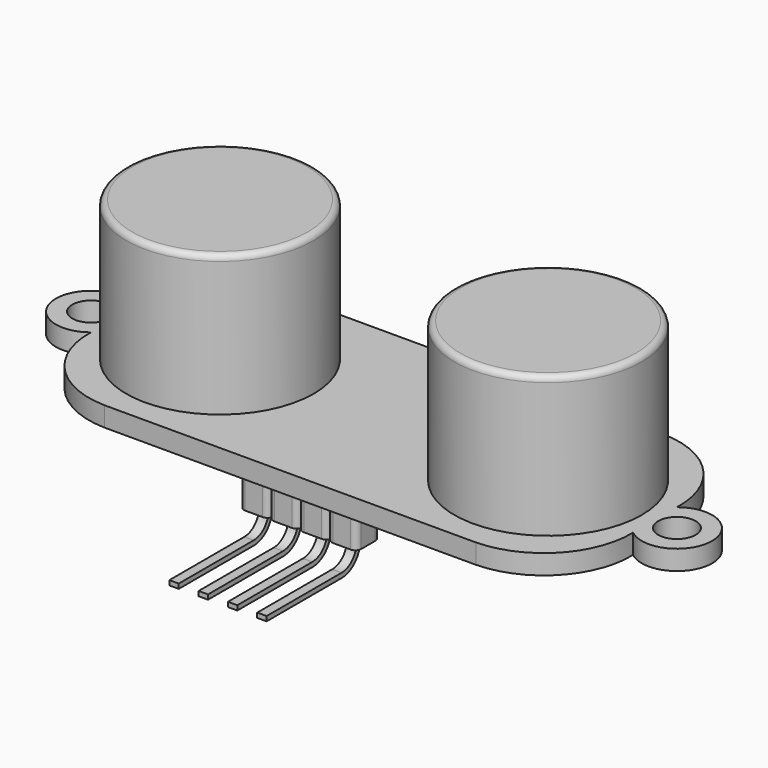
from build123d import *

# Parameters (mm, degrees)
SKETCH_R                  = 1.6
PAD_DEPTH                 = 1.68
SKETCH001_R               = 8
PAD001_DEPTH              = 12
FILLET_R                  = 0.5
FILLET001_R               = 0.5
PAD003_DEPTH              = 0.8
SKETCH005_W               = 2.5
SKETCH005_H               = 2.5
PAD004_DEPTH              = 3
FILLET002_R               = 0.5
PAD005_DEPTH              = 3
FILLET003_R               = 0.5
PAD006_DEPTH              = 3
FILLET004_R               = 0.5
PAD007_DEPTH              = 3
FILLET005_R               = 0.5
FUSION001_PLACEMENT_ANGLE = 180


with BuildPart() as fillet001:
    # Sketch → Pad (new body)
    with BuildSketch(Plane.XY):
        with BuildLine():
            Line((-15.86, -10), (15.86, -10))
            ThreePointArc((15.86, -10), (21.088323, -7.686238), (23.129445, -2.345574))
            ThreePointArc((23.129445, -2.345574), (28.000116, 0), (23.129445, 2.345574))
            ThreePointArc((23.129445, 2.345574), (21.088323, 7.686238), (15.86, 10))
            Line((-15.86, 10), (15.86, 10))
            ThreePointArc((-15.86, 10), (-21.088323, 7.686238), (-23.129445, 2.345574))
            ThreePointArc((-23.129445, 2.345574), (-28.000116, 0), (-23.129445, -2.345574))
            ThreePointArc((-23.129445, -2.345574), (-21.088323, -7.686238), (-15.86, -10))
        make_face()
        with Locations((-25, 0)):
            Circle(SKETCH_R, mode=Mode.SUBTRACT)
        with Locations((25, 0)):
            Circle(SKETCH_R, mode=Mode.SUBTRACT)
    extrude(amount=PAD_DEPTH)

    # Sketch001 → Pad001 (new body)
    with BuildSketch(Plane.XY.offset(1.68)):
        with Locations((-14, 0)):
            Circle(SKETCH001_R)
        with Locations((14, 0)):
            Circle(SKETCH001_R)
    extrude(amount=PAD001_DEPTH)

    # Fillet
    fillet_edges = [fillet001.edges().sort_by_distance(p)[0] for p in [
        (-22, 0, 13.68),
    ]]
    fillet(fillet_edges, radius=FILLET_R)

    # Fillet001
    fillet001_edges = [fillet001.edges().sort_by_distance(p)[0] for p in [
        (6, 0, 13.68),
    ]]
    fillet(fillet001_edges, radius=FILLET001_R)


with BuildPart() as pad003:
    # Sketch004 → Pad003 (new body)
    with BuildSketch(Plane.YZ):
        with BuildLine():
            Line((8.479446, 5.043058), (16.479446, 5.043058))
            ThreePointArc((18.452563, 3.069941), (17.874651, 4.465146), (16.479446, 5.043058))
            Line((18.452563, 3.069941), (18.452563, 0))
            Line((18.052563, 0), (18.452563, 0))
            Line((18.052563, 3.069941), (18.052563, 0))
            ThreePointArc((18.052563, 3.069941), (17.591808, 4.182303), (16.479446, 4.643058))
            Line((8.479446, 4.643058), (16.479446, 4.643058))
            Line((8.479446, 5.043058), (8.479446, 4.643058))
        make_face()
    extrude(amount=PAD003_DEPTH)


with BuildPart() as pin:
    # Pad004 base: copy of Pad003
    add(pad003.part)

    # Sketch005 → Pad004 (new body)
    with BuildSketch(Plane.YX):
        with Locations((18.252565, 0.399998)):
            Rectangle(SKETCH005_W, SKETCH005_H)
    extrude(amount=-PAD004_DEPTH)

    # Fillet002
    fillet002_edges = [pin.edges().sort_by_distance(p)[0] for p in [
        (1.649998, 17.002565, 1.5),
        (1.649998, 19.502565, 1.5),
        (-0.850002, 17.002565, 1.5),
        (-0.850002, 19.502565, 1.5),
    ]]
    fillet(fillet002_edges, radius=FILLET002_R)


with BuildPart() as pin2:
    # Pad005 base: copy of Pad003
    add(pad003.part)

    # Sketch005 → Pad005 (new body)
    with BuildSketch(Plane.YX):
        with Locations((18.252565, 0.399998)):
            Rectangle(SKETCH005_W, SKETCH005_H)
    extrude(amount=-PAD005_DEPTH)

    # Fillet003
    fillet003_edges = [pin2.edges().sort_by_distance(p)[0] for p in [
        (1.649998, 17.002565, 1.5),
        (1.649998, 19.502565, 1.5),
        (-0.850002, 17.002565, 1.5),
        (-0.850002, 19.502565, 1.5),
    ]]
    fillet(fillet003_edges, radius=FILLET003_R)


with BuildPart() as pin2_1:
    # Fillet003 placement: moved
    add(pin2.part.moved(Location((2.5, 0, 0))))


with BuildPart() as pin3:
    # Pad006 base: copy of Pad003
    add(pad003.part)

    # Sketch005 → Pad006 (new body)
    with BuildSketch(Plane.YX):
        with Locations((18.252565, 0.399998)):
            Rectangle(SKETCH005_W, SKETCH005_H)
    extrude(amount=-PAD006_DEPTH)

    # Fillet004
    fillet004_edges = [pin3.edges().sort_by_distance(p)[0] for p in [
        (1.649998, 17.002565, 1.5),
        (1.649998, 19.502565, 1.5),
        (-0.850002, 17.002565, 1.5),
        (-0.850002, 19.502565, 1.5),
    ]]
    fillet(fillet004_edges, radius=FILLET004_R)


with BuildPart() as pin3_1:
    # Fillet004 placement: moved
    add(pin3.part.moved(Location((5, 0, 0))))


with BuildPart() as headers:
    # Pad007 base: copy of Pad003
    add(pad003.part)

    # Sketch005 → Pad007 (new body)
    with BuildSketch(Plane.YX):
        with Locations((18.252565, 0.399998)):
            Rectangle(SKETCH005_W, SKETCH005_H)
    extrude(amount=-PAD007_DEPTH)

    # Fillet005
    fillet005_edges = [headers.edges().sort_by_distance(p)[0] for p in [
        (1.649998, 17.002565, 1.5),
        (1.649998, 19.502565, 1.5),
        (-0.850002, 17.002565, 1.5),
        (-0.850002, 19.502565, 1.5),
    ]]
    fillet(fillet005_edges, radius=FILLET005_R)


with BuildPart() as headers_1:
    # Fillet005 placement: moved
    add(headers.part.moved(Location((7.5, 0, 0))))

    # Fusion001: union Pin, Pin2, Pin3
    add(pin.part)
    add(pin2_1.part)
    add(pin3_1.part)


with BuildPart() as headers_2:
    # Fusion001 placement: moved
    add(headers_1.part.moved(Location((4, -26, 0))).rotate(Axis((4, -26, 0), (0, 1, 0)), FUSION001_PLACEMENT_ANGLE))


solid = Compound([fillet001.part, headers_2.part])
